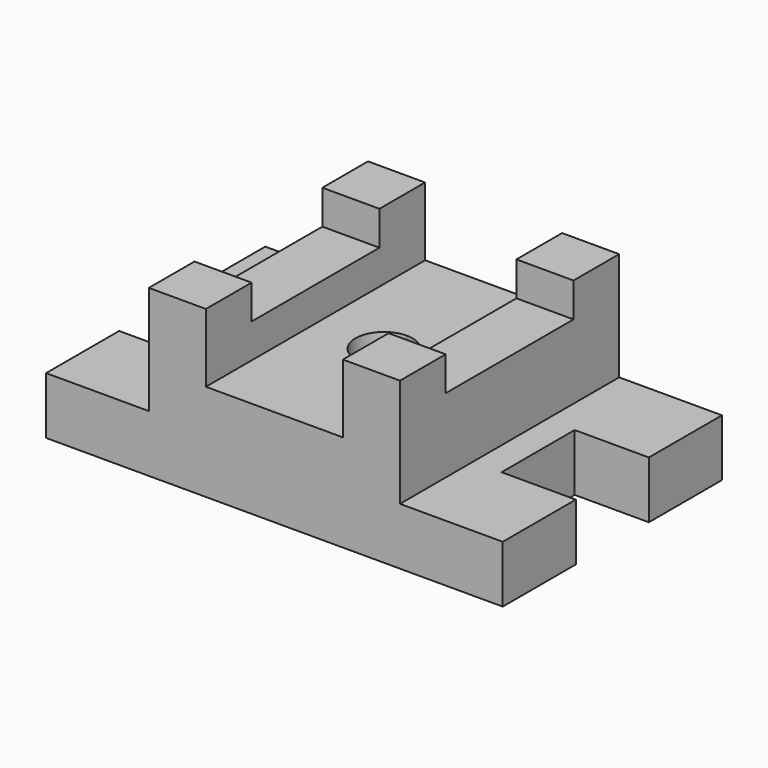
from build123d import *

# Parameters (mm, degrees)
F0_W     = 41.275
F0_H     = 50.8
F0_W_2   = 31.75
F0_H_2   = 88.9
F0_H_3   = 31.75
F1_DEPTH = 31.75
F2_DEPTH = 31.751
F3_DEPTH = 22.225
F4_DEPTH = 60.325
F5_DEPTH = 41.275
F6_DEPTH = 31.751


with BuildPart() as f1:
    # F0 (on Top) → F1 (new body)
    with BuildSketch(Plane.XY):
        Polygon((-69.85, 76.2), (-127, 76.2), (-127, 25.4), (-85.725, 25.4), (-85.725, -25.4), (-127, -25.4), (-127, -76.2), (-69.85, -76.2), (-69.85, -44.45), (-69.85, 44.45), align=None)
        with Locations((-106.3625, 0)):
            Rectangle(F0_W, F0_H)
        with Locations((-53.975, 0)):
            Rectangle(F0_W_2, F0_H_2)
        with Locations((-53.975, 60.325)):
            Rectangle(F0_W_2, F0_H_3)
        with Locations((-53.975, -60.325)):
            Rectangle(F0_W_2, F0_H_3)
        with BuildLine():
            Line((0, 76.2), (-38.1, 76.2))
            Line((-38.1, 76.2), (-38.1, 44.45))
            Line((-38.1, 44.45), (-38.1, -44.45))
            Line((-38.1, -44.45), (-38.1, -76.2))
            Line((-38.1, -76.2), (0, -76.2))
            Line((0, -76.2), (0, -15.875))
            ThreePointArc((0, -15.875), (-15.875, 0), (0, 15.875))
            Line((0, 15.875), (0, 76.2))
        make_face()
        with BuildLine():
            ThreePointArc((15.875, 0), (11.2253201513, 11.2253201513), (0, 15.875))
            Line((0, 15.875), (0, -15.875))
            ThreePointArc((0, -15.875), (11.2253201513, -11.2253201513), (15.875, 0))
        make_face()
        with BuildLine():
            Line((0, -15.875), (0, 15.875))
            ThreePointArc((0, 15.875), (-15.875, 0), (0, -15.875))
        make_face()
        with BuildLine():
            Line((38.1, 76.2), (0, 76.2))
            Line((0, 76.2), (0, 15.875))
            ThreePointArc((0, 15.875), (11.2253201513, 11.2253201513), (15.875, 0))
            ThreePointArc((15.875, 0), (11.2253201513, -11.2253201513), (0, -15.875))
            Line((0, -15.875), (0, -76.2))
            Line((0, -76.2), (38.1, -76.2))
            Line((38.1, -76.2), (38.1, -44.45))
            Line((38.1, -44.45), (38.1, 44.45))
            Line((38.1, 44.45), (38.1, 76.2))
        make_face()
        with Locations((53.975, 0)):
            Rectangle(F0_W_2, F0_H_2)
        with Locations((53.975, -60.325)):
            Rectangle(F0_W_2, F0_H_3)
        with Locations((53.975, 60.325)):
            Rectangle(F0_W_2, F0_H_3)
        Polygon((127, 76.2), (69.85, 76.2), (69.85, 44.45), (69.85, -44.45), (69.85, -76.2), (127, -76.2), (127, -25.4), (85.725, -25.4), (85.725, 25.4), (127, 25.4), align=None)
        with Locations((106.3625, 0)):
            Rectangle(F0_W, F0_H)
    extrude(amount=-F1_DEPTH)

    # F0 (on Top) → F2 (cut, through all)
    with BuildSketch(Plane.XY):
        with Locations((-106.3625, 0)):
            Rectangle(F0_W, F0_H)
        with Locations((106.3625, 0)):
            Rectangle(F0_W, F0_H)
    extrude(amount=-F2_DEPTH, mode=Mode.SUBTRACT)

    # F0 (on Top) → F3 (join)
    with BuildSketch(Plane.XY):
        with BuildLine():
            Line((0, 76.2), (-38.1, 76.2))
            Line((-38.1, 76.2), (-38.1, 44.45))
            Line((-38.1, 44.45), (-38.1, -44.45))
            Line((-38.1, -44.45), (-38.1, -76.2))
            Line((-38.1, -76.2), (0, -76.2))
            Line((0, -76.2), (0, -15.875))
            ThreePointArc((0, -15.875), (-15.875, 0), (0, 15.875))
            Line((0, 15.875), (0, 76.2))
        make_face()
        with BuildLine():
            Line((38.1, 76.2), (0, 76.2))
            Line((0, 76.2), (0, 15.875))
            ThreePointArc((0, 15.875), (11.2253201513, 11.2253201513), (15.875, 0))
            ThreePointArc((15.875, 0), (11.2253201513, -11.2253201513), (0, -15.875))
            Line((0, -15.875), (0, -76.2))
            Line((0, -76.2), (38.1, -76.2))
            Line((38.1, -76.2), (38.1, -44.45))
            Line((38.1, -44.45), (38.1, 44.45))
            Line((38.1, 44.45), (38.1, 76.2))
        make_face()
    extrude(amount=F3_DEPTH)

    # F0 (on Top) → F4 (join)
    with BuildSketch(Plane.XY):
        with Locations((-53.975, 60.325)):
            Rectangle(F0_W_2, F0_H_3)
        with Locations((-53.975, -60.325)):
            Rectangle(F0_W_2, F0_H_3)
        with Locations((53.975, 60.325)):
            Rectangle(F0_W_2, F0_H_3)
        with Locations((53.975, -60.325)):
            Rectangle(F0_W_2, F0_H_3)
    extrude(amount=F4_DEPTH)

    # F0 (on Top) → F5 (join)
    with BuildSketch(Plane.XY):
        with Locations((-53.975, 0)):
            Rectangle(F0_W_2, F0_H_2)
        with Locations((53.975, 0)):
            Rectangle(F0_W_2, F0_H_2)
    extrude(amount=F5_DEPTH)

    # F0 (on Top) → F6 (cut, through all)
    with BuildSketch(Plane.XY):
        with BuildLine():
            Line((0, -15.875), (0, 15.875))
            ThreePointArc((0, 15.875), (-15.875, 0), (0, -15.875))
        make_face()
        with BuildLine():
            ThreePointArc((15.875, 0), (11.2253201513, 11.2253201513), (0, 15.875))
            Line((0, 15.875), (0, -15.875))
            ThreePointArc((0, -15.875), (11.2253201513, -11.2253201513), (15.875, 0))
        make_face()
    extrude(amount=-F6_DEPTH, mode=Mode.SUBTRACT)


solid = f1.part
